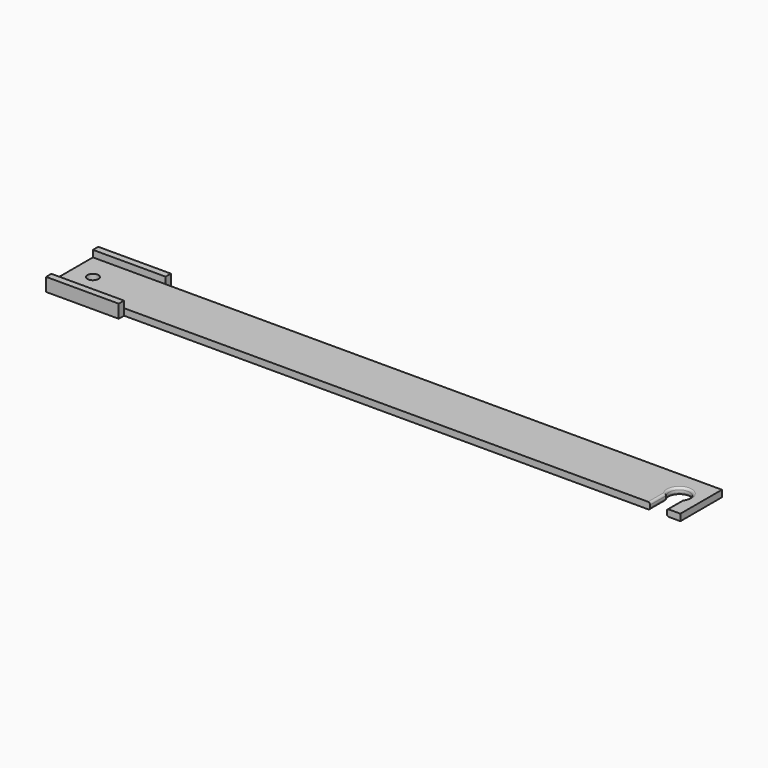
from build123d import *

# Parameters (mm, degrees)
PAD_DEPTH    = 3.2
FILLET_R     = 1
SKETCH001_R  = 2.64391
POCKET_DEPTH = 5
SKETCH002_W  = 35
SKETCH002_H  = 6.4
PAD001_DEPTH = 3.2
SKETCH003_W  = 35
SKETCH003_H  = 6.4
PAD002_DEPTH = 3.2


with BuildPart() as part:
    # Sketch → Pad (new body)
    with BuildSketch(Plane.XY):
        with BuildLine():
            Line((0, 0), (288.43, 0))
            Line((288.43, 0), (288.43, 9.595676))
            ThreePointArc((296.43, 9.408868), (292.616723, 17.498637), (288.43, 9.595676))
            Line((296.43, 0), (296.43, 9.408868))
            Line((296.43, 0), (303, 0))
            Line((303, 0), (303, 25))
            Line((303, 25), (0, 25))
            Line((0, 25), (0, 0))
        make_face()
    extrude(amount=PAD_DEPTH)

    # Fillet
    fillet_edges = [part.edges().sort_by_distance(p)[0] for p in [
        (296.43, 4.704434, 0),
        (292.616723, 17.498637, 0),
        (288.43, 4.797838, 0),
        (296.43, 4.704434, 3.2),
        (288.43, 4.797838, 3.2),
        (292.616723, 17.498637, 3.2),
    ]]
    fillet(fillet_edges, radius=FILLET_R)

    # Sketch001 (on Face6 of Fillet) → Pocket (cut)
    with BuildSketch(Plane.XY.offset(3.2)):
        with Locations((10, 12.5)):
            Circle(SKETCH001_R)
    extrude(amount=-POCKET_DEPTH, mode=Mode.SUBTRACT)

    # Sketch002 (on Face11 of Pocket) → Pad001 (join)
    with BuildSketch(Plane(origin=(0, 25, 0), x_dir=(-1, 0, 0), z_dir=(0, 1, 0))):
        with Locations((-17.5, 3.2)):
            Rectangle(SKETCH002_W, SKETCH002_H)
    extrude(amount=PAD001_DEPTH)

    # Sketch003 (on Face15 of Pad001) → Pad002 (join)
    with BuildSketch(Plane.XZ):
        with Locations((17.5, 3.2)):
            Rectangle(SKETCH003_W, SKETCH003_H)
    extrude(amount=PAD002_DEPTH)


solid = part.part
